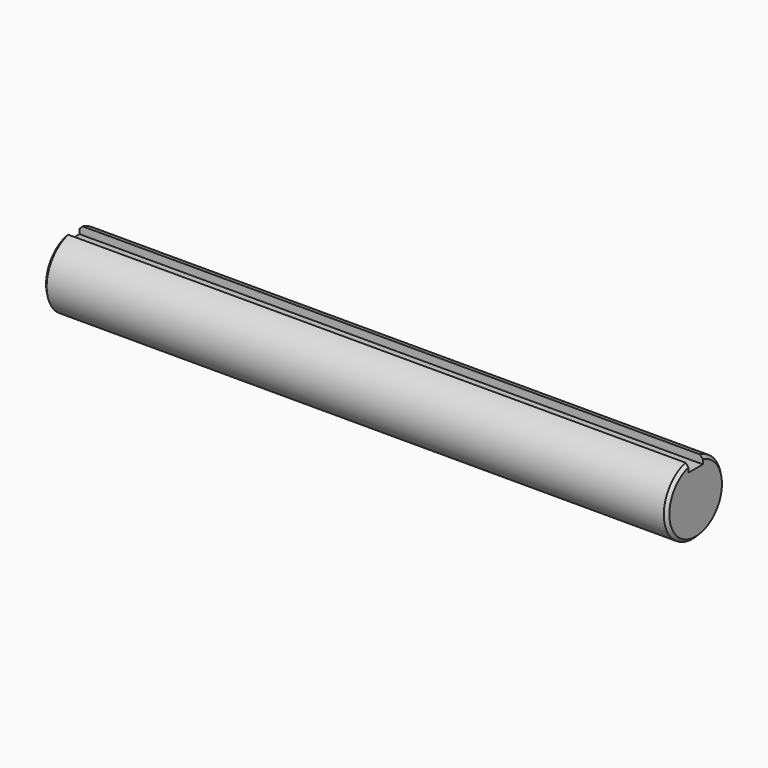
from build123d import *

# Parameters (mm, degrees)
F1_DEPTH = 82.55


with BuildPart() as f1:
    # F0 (on Right) → F1 (new body, symmetric)
    with BuildSketch(Plane.YZ):
        with BuildLine():
            Line((-2.38125, 7.14375), (-2.38125, 9.2225415932))
            ThreePointArc((-2.38125, 9.2225415932), (0, -9.525), (2.38125, 9.2225415932))
            Line((2.38125, 9.2225415932), (2.38125, 7.14375))
            Line((2.38125, 7.14375), (-2.38125, 7.14375))
        make_face()
    extrude(amount=F1_DEPTH, both=True)

    # F2 (on Front) → F3 (revolve, cut)
    with BuildSketch(Plane.XZ):
        Polygon((84.836, 11.5085415932), (79.756, 11.5085415932), (84.836, 6.4285415932), align=None)
        Polygon((-79.756, 11.5085415932), (-84.836, 11.5085415932), (-84.836, 6.4285415932), align=None)
    revolve(axis=Axis((41.275, 0, 0), (1, 0, 0)), mode=Mode.SUBTRACT)


solid = f1.part
